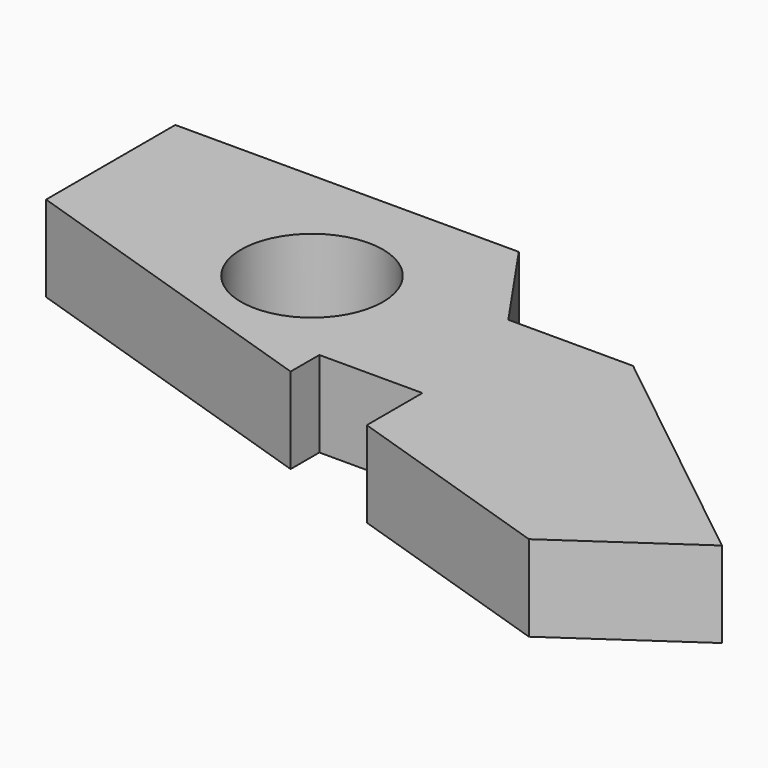
from build123d import *

# Parameters (mm, degrees)
F0_R     = 20.650095
F1_DEPTH = 25
F2_W     = 30
F2_H     = 32.013418
F3_DEPTH = 25


with BuildPart() as f1:
    # F0 (on Top) → F1 (new body)
    with BuildSketch(Plane.XY):
        Polygon((29.359795, 67.968812), (-70.640205, 67.968812), (-70.640205, 20.943799), (119.507518, -41.054939), (155.728, -16.081285), (84.712092, 40.356558), (48.398163, 40.356558), align=None)
        with Locations((0, 29.416777)):
            Circle(F0_R, mode=Mode.SUBTRACT)
    extrude(amount=F1_DEPTH)

    # F2 (on Top) → F3 (cut)
    with BuildSketch(Plane.XY):
        with Locations((40.671138, -16.006709)):
            Rectangle(F2_W, F2_H)
    extrude(amount=F3_DEPTH, mode=Mode.SUBTRACT)


solid = f1.part
